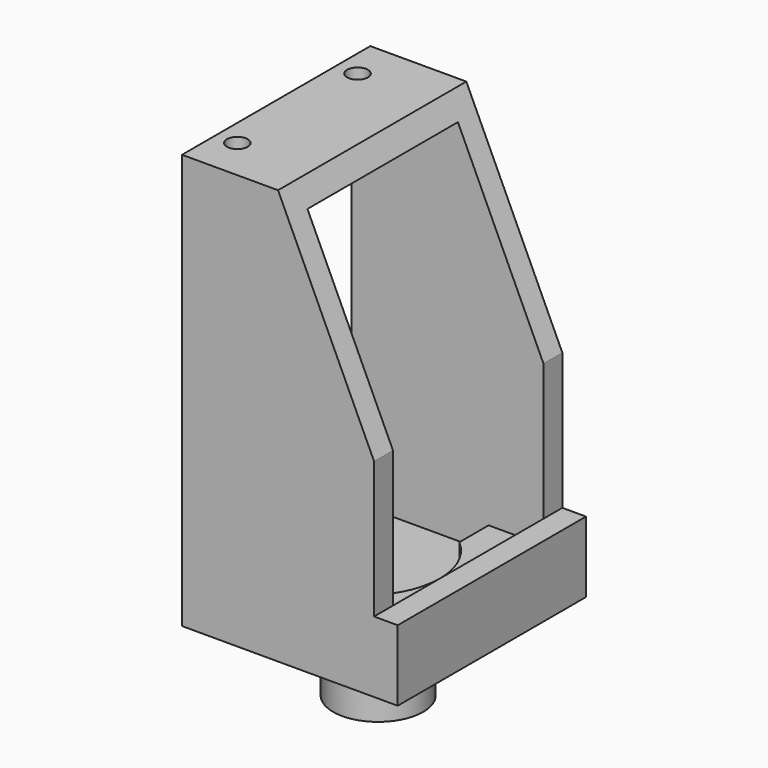
from build123d import *

# Parameters (mm, degrees)
F1_DEPTH  = 24.9
F2_W      = 19.9
F2_H      = 36.5
F3_DEPTH  = 25.4
F4_W      = 24.9
F4_H      = 5
F4_H_2    = 7.5
F5_DEPTH  = 2.5
F7_DEPTH  = 2.5
F8_R      = 1.1
F9_DEPTH  = 25.4
F10_R     = 4.7625
F11_DEPTH = 8
F12_R     = 1.016
F13_DEPTH = 5
F14_W     = 2.5
F14_H     = 7.5
F14_H_2   = 5
F15_DEPTH = 25.4
F16_W     = 24.9
F16_H     = 7.5
F17_DEPTH = 2.5


with BuildPart() as f1:
    # F0 (on Front) → F1 (new body)
    with BuildSketch(Plane.XZ):
        Polygon((10.16, 0), (0, 21.95), (-10.16, 21.95), (-10.16, -21.95), (10.16, -21.95), align=None)
    extrude(amount=F1_DEPTH)

    # F2 (on face) → F3 (cut)
    with BuildSketch(Plane(origin=(-10.16, 0, 0), x_dir=(0, -1, 0), z_dir=(-1, 0, 0))):
        with Locations((12.45, 1.3)):
            Rectangle(F2_W, F2_H)
    extrude(amount=-F3_DEPTH, mode=Mode.SUBTRACT)

    # F4 (on face) → F5 (join)
    with BuildSketch(Plane(origin=(-10.16, 0, 0), x_dir=(0, -1, 0), z_dir=(-1, 0, 0))):
        with Locations((12.45, 19.45)):
            Rectangle(F4_W, F4_H)
        with Locations((12.45, -18.2)):
            Rectangle(F4_W, F4_H_2)
    extrude(amount=F5_DEPTH)

    # F6 (on face) → F7 (cut)
    with BuildSketch(Plane.XY.offset(-16.95)):
        with BuildLine():
            Line((4.36, -6.370526), (4.36, -2.5))
            Line((4.36, -2.5), (-10.16, -2.5))
            Line((-10.16, -2.5), (-10.16, -22.4))
            Line((-10.16, -22.4), (4.36, -22.4))
            Line((4.36, -22.4), (4.36, -18.529474))
            ThreePointArc((4.36, -18.529474), (7.16, -12.45), (4.36, -6.370526))
        make_face()
    extrude(amount=-F7_DEPTH, mode=Mode.SUBTRACT)

    # F8 (on face) → F9 (cut)
    with BuildSketch(Plane.XY.offset(21.95)):
        with Locations((-7.91, -4.5)):
            Circle(F8_R)
        with Locations((-7.91, -20.4)):
            Circle(F8_R)
    extrude(amount=-F9_DEPTH, mode=Mode.SUBTRACT)

    # F10 (on face) → F11 (join)
    with BuildSketch(Plane(origin=(0, 0, -21.95), x_dir=(1, 0, 0), z_dir=(0, 0, -1))):
        with Locations((0.635, 12.45)):
            Circle(F10_R)
    extrude(amount=F11_DEPTH)

    # F12 (on face) → F13 (cut)
    with BuildSketch(Plane(origin=(0, 0, -29.95), x_dir=(1, 0, 0), z_dir=(0, 0, -1))):
        with Locations((0.635, 12.45)):
            Circle(F12_R)
    extrude(amount=-F13_DEPTH, mode=Mode.SUBTRACT)

    # F14 (on face) → F15 (cut)
    with BuildSketch(Plane.XZ.offset(24.9)):
        with Locations((-11.41, -18.2)):
            Rectangle(F14_W, F14_H)
        with Locations((-11.41, 19.45)):
            Rectangle(F14_W, F14_H_2)
    extrude(amount=-F15_DEPTH, mode=Mode.SUBTRACT)

    # F16 (on face) → F17 (join)
    with BuildSketch(Plane.YZ.offset(10.16)):
        with Locations((-12.45, -18.2)):
            Rectangle(F16_W, F16_H)
    extrude(amount=F17_DEPTH)


solid = f1.part
